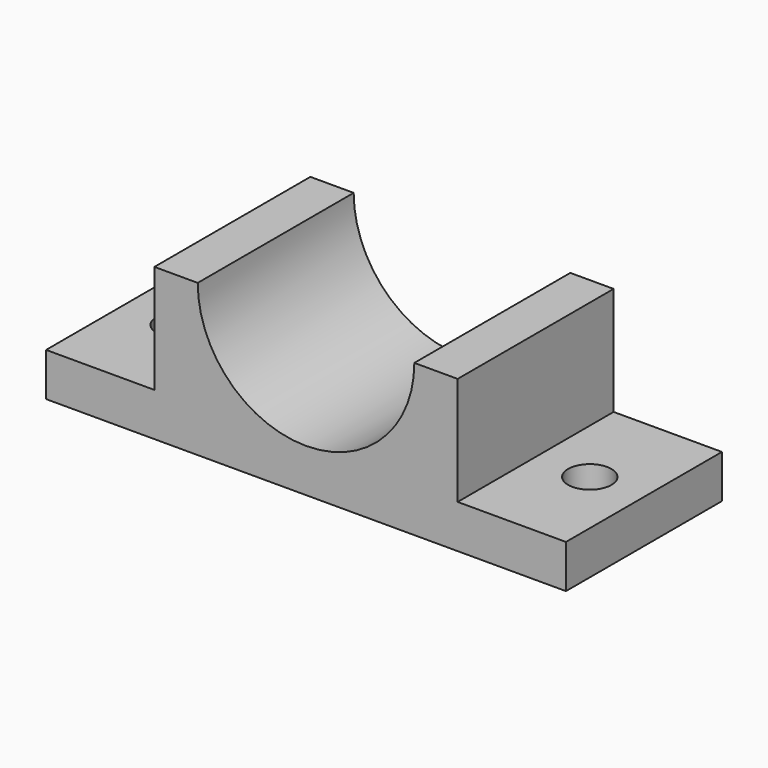
from build123d import *

# Parameters (mm, degrees)
F1_DEPTH = 57.15
F2_R     = 6.35
F3_DEPTH = 25.4
F5_DEPTH = 25.4


with BuildPart() as f1:
    # F0 (on Front) → F1 (new body)
    with BuildSketch(Plane.XZ):
        with BuildLine():
            Line((-44.613872, 12.7), (-44.613872, 0))
            Line((-44.613872, 0), (107.786128, 0))
            Line((107.786128, 0), (107.786128, 12.7))
            Line((107.786128, 12.7), (76.036128, 12.7))
            Line((76.036128, 12.7), (76.036128, 44.45))
            Line((76.036128, 44.45), (63.336128, 44.45))
            ThreePointArc((63.336128, 44.45), (31.586128, 12.7), (-0.163872, 44.45))
            Line((-0.163872, 44.45), (-12.863872, 44.45))
            Line((-12.863872, 44.45), (-12.863872, 12.7))
            Line((-12.863872, 12.7), (-44.613872, 12.7))
        make_face()
    extrude(amount=F1_DEPTH)

    # F2 (on face) → F3 (cut)
    with BuildSketch(Plane.XY.offset(12.7)):
        with Locations((91.911128, -28.575)):
            Circle(F2_R)
    extrude(amount=-F3_DEPTH, mode=Mode.SUBTRACT)

    # F4 (on face) → F5 (cut)
    with BuildSketch(Plane.XY.offset(12.7)):
        with BuildLine():
            ThreePointArc((-35.088872, -28.575), (-28.738872, -34.925), (-22.388872, -28.575))
            ThreePointArc((-22.388872, -28.575), (-28.738872, -22.225), (-35.088872, -28.575))
        make_face()
    extrude(amount=-F5_DEPTH, mode=Mode.SUBTRACT)


solid = f1.part
